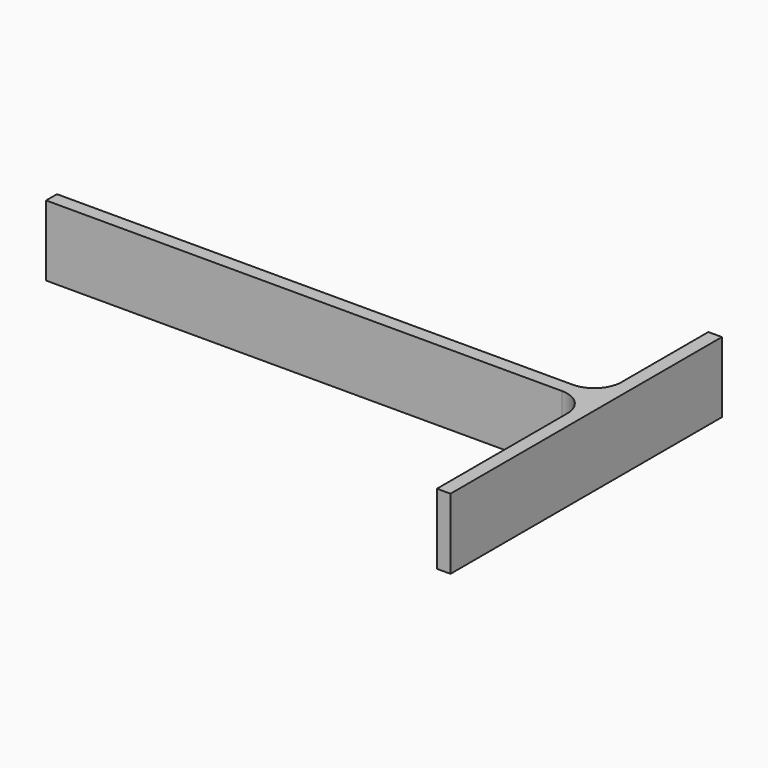
from build123d import *

# Parameters (mm, degrees)
F1_DEPTH = 13
F2_R     = 5


with BuildPart() as f1:
    # F0 (on Top) → F1 (new body)
    with BuildSketch(Plane.XY):
        Polygon((-62.404933, 2.5), (-62.404933, 0), (37.595067, 0), (37.595067, -35), (40.095067, -35), (40.095067, 27.5), (37.595067, 27.5), (37.595067, 2.5), align=None)
    extrude(amount=-F1_DEPTH)

    # F2
    f2_edges = [f1.edges().sort_by_distance(p)[0] for p in [
        (37.595067, 0, -6.5),
        (37.595067, 2.5, -6.5),
    ]]
    fillet(f2_edges, radius=F2_R)


solid = f1.part
